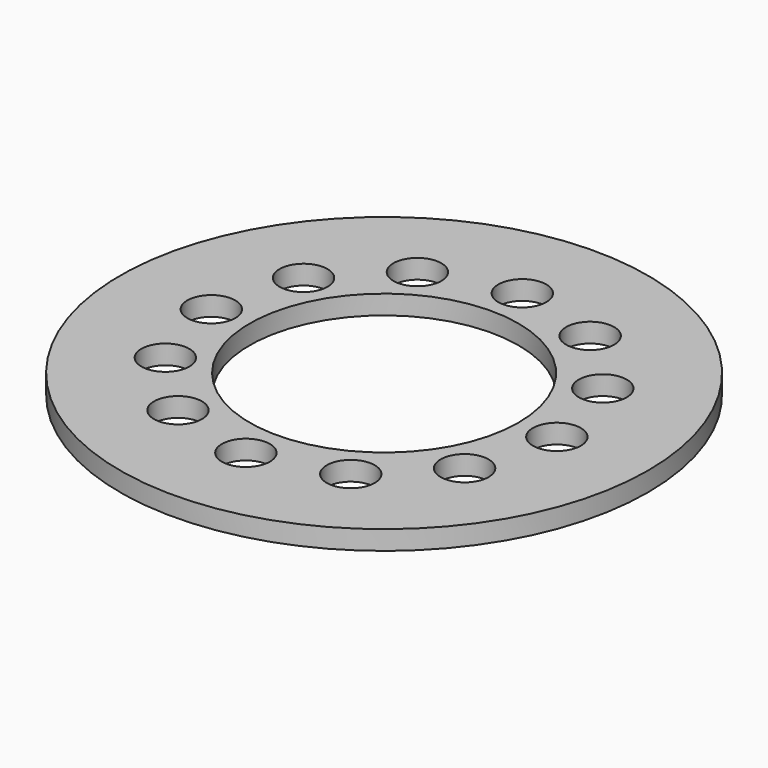
from build123d import *

# Parameters (mm, degrees)
SKETCH_R   = 27.5
SKETCH_R_2 = 14
SKETCH_R_3 = 2.5
PAD_DEPTH  = 2


with BuildPart() as part:
    # Sketch → Pad (new body)
    with BuildSketch(Plane.XY):
        Circle(SKETCH_R)
        Circle(SKETCH_R_2, mode=Mode.SUBTRACT)
        with Locations((0, 18)):
            Circle(SKETCH_R_3, mode=Mode.SUBTRACT)
        with Locations((-15.588457, -9)):
            Circle(SKETCH_R_3, mode=Mode.SUBTRACT)
        with Locations((15.588457, -9)):
            Circle(SKETCH_R_3, mode=Mode.SUBTRACT)
        with Locations((0, -18)):
            Circle(SKETCH_R_3, mode=Mode.SUBTRACT)
        with Locations((-15.588457, 9)):
            Circle(SKETCH_R_3, mode=Mode.SUBTRACT)
        with Locations((15.588457, 9)):
            Circle(SKETCH_R_3, mode=Mode.SUBTRACT)
        with Locations((-9, 15.588457)):
            Circle(SKETCH_R_3, mode=Mode.SUBTRACT)
        with Locations((9, -15.588457)):
            Circle(SKETCH_R_3, mode=Mode.SUBTRACT)
        with Locations((9, 15.588457)):
            Circle(SKETCH_R_3, mode=Mode.SUBTRACT)
        with Locations((-9, -15.588457)):
            Circle(SKETCH_R_3, mode=Mode.SUBTRACT)
        with Locations((18, 0)):
            Circle(SKETCH_R_3, mode=Mode.SUBTRACT)
        with Locations((-18, 0)):
            Circle(SKETCH_R_3, mode=Mode.SUBTRACT)
    extrude(amount=PAD_DEPTH)


solid = part.part
